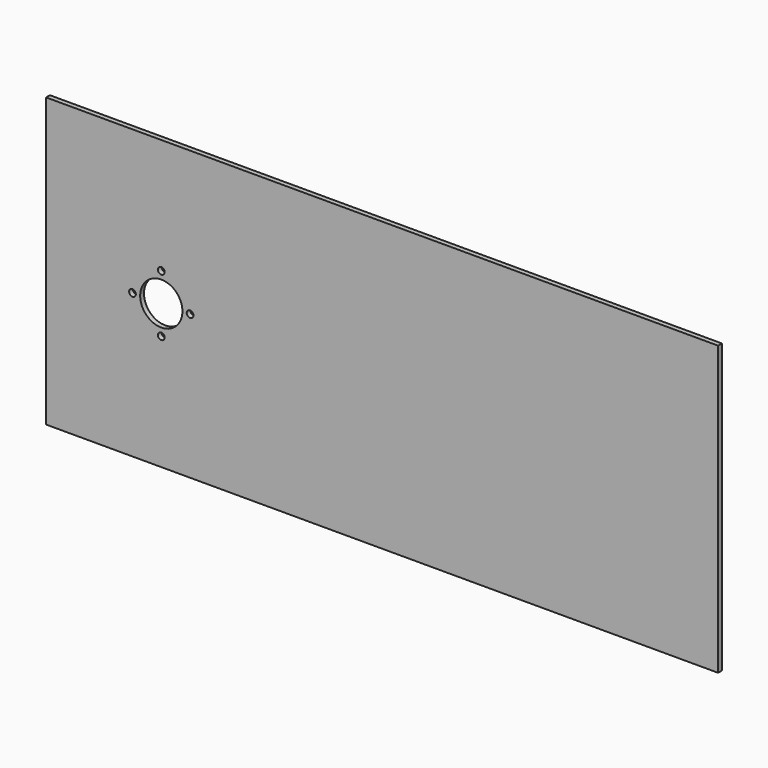
from build123d import *

# Parameters (mm, degrees)
F0_W     = 350
F0_H     = 150
F0_R     = 1.75
F0_R_2   = 11
F1_DEPTH = 2.5


with BuildPart() as f1:
    # F0 (on Front) → F1 (new body)
    with BuildSketch(Plane.XZ):
        Rectangle(F0_W, F0_H)
        with Locations((-115, -15)):
            Circle(F0_R, mode=Mode.SUBTRACT)
        with Locations((-130, 0)):
            Circle(F0_R, mode=Mode.SUBTRACT)
        with Locations((-115, 0)):
            Circle(F0_R_2, mode=Mode.SUBTRACT)
        with Locations((-100, 0)):
            Circle(F0_R, mode=Mode.SUBTRACT)
        with Locations((-115, 15)):
            Circle(F0_R, mode=Mode.SUBTRACT)
    extrude(amount=F1_DEPTH)


solid = f1.part
